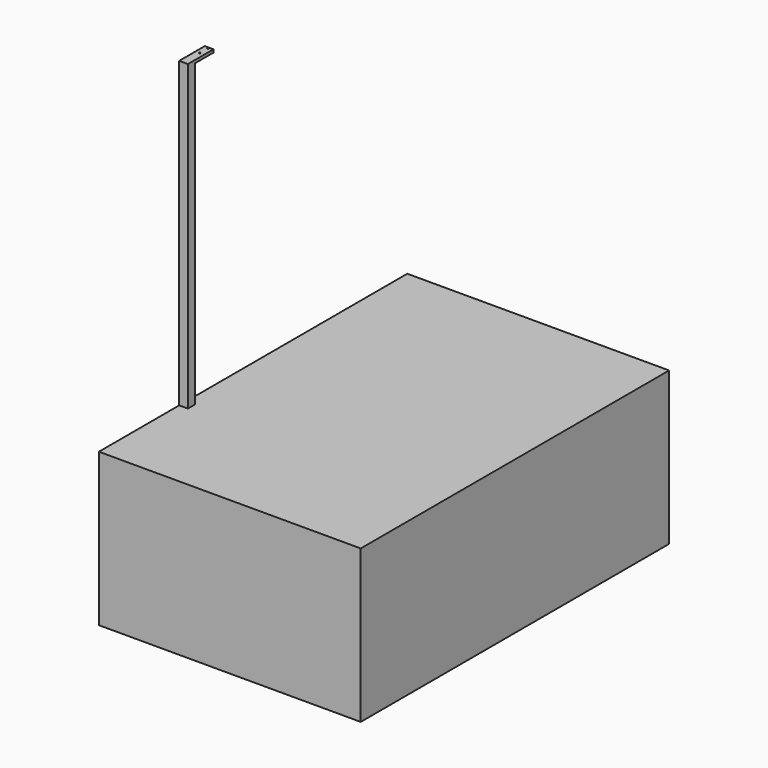
from build123d import *

# Parameters (mm, degrees)
F0_W     = 1800
F0_H     = 2650
F1_DEPTH = 1050
F2_W     = 60
F2_H     = 60
F3_DEPTH = 2085
F4_W     = 60
F4_H     = 20
F5_DEPTH = 160
F6_R     = 5.209347
F6_R_2   = 5.240667
F7_DEPTH = 20


with BuildPart() as f1:
    # F0 (on Top) → F1 (new body)
    with BuildSketch(Plane.XY):
        with Locations((440.203567, 2.635106)):
            Rectangle(F0_W, F0_H)
    extrude(amount=F1_DEPTH)

    # F2 (on face) → F3 (join)
    with BuildSketch(Plane.XY.offset(1050)):
        with Locations((-429.796433, -602.364894)):
            Rectangle(F2_W, F2_H)
    extrude(amount=F3_DEPTH)

    # F4 (on face) → F5 (join)
    with BuildSketch(Plane(origin=(0, -572.364894, 0), x_dir=(-1, 0, 0), z_dir=(0, 1, 0))):
        with Locations((429.796433, 3125)):
            Rectangle(F4_W, F4_H)
    extrude(amount=F5_DEPTH)

    # F6 (on face) → F7 (cut, through all)
    with BuildSketch(Plane.XY.offset(3135)):
        with Locations((-429.796433, -492.364894)):
            Circle(F6_R)
        with Locations((-429.796433, -422.364894)):
            Circle(F6_R_2)
    extrude(amount=-F7_DEPTH, mode=Mode.SUBTRACT)


solid = f1.part
